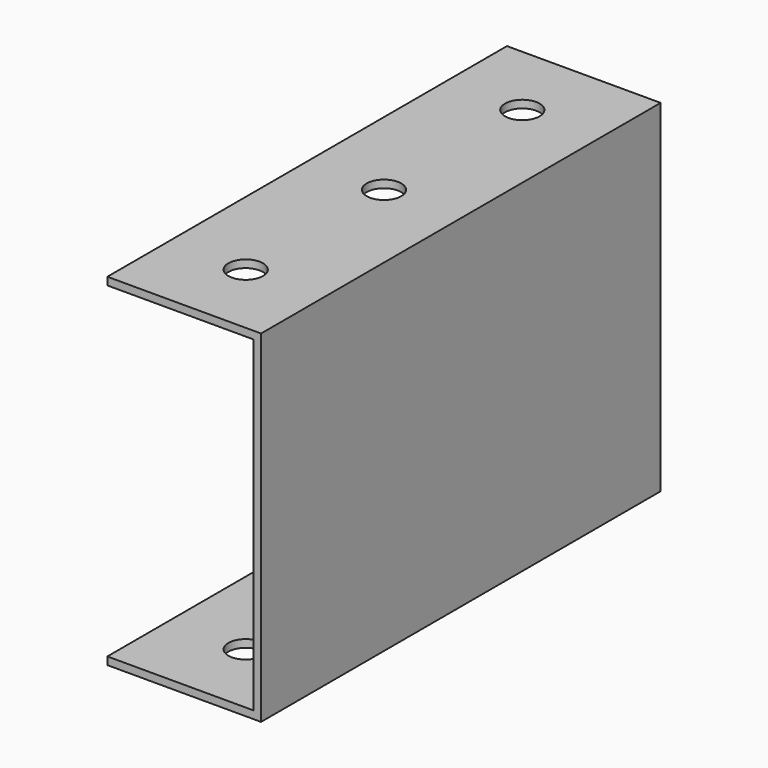
from build123d import *

# Parameters (mm, degrees)
F1_DEPTH = 130
F2_R     = 4.5
F3_DEPTH = 130


with BuildPart() as f1:
    # F0 (on Front) → F1 (new body)
    with BuildSketch(Plane.XZ):
        Polygon((20, -45.737995), (20, 43.262005), (-20, 43.262005), (-20, 41.262005), (-18, 41.262005), (18, 41.262005), (18, -43.737995), (-18, -43.737995), (-20, -43.737995), (-20, -45.737995), align=None)
    extrude(amount=F1_DEPTH)

    # F2 (on face) → F3 (cut)
    with BuildSketch(Plane.XY.offset(43.262005)):
        with Locations((0, -20)):
            Circle(F2_R)
        with Locations((0, -65)):
            Circle(F2_R)
        with Locations((0, -110)):
            Circle(F2_R)
    extrude(amount=-F3_DEPTH, mode=Mode.SUBTRACT)


solid = f1.part
